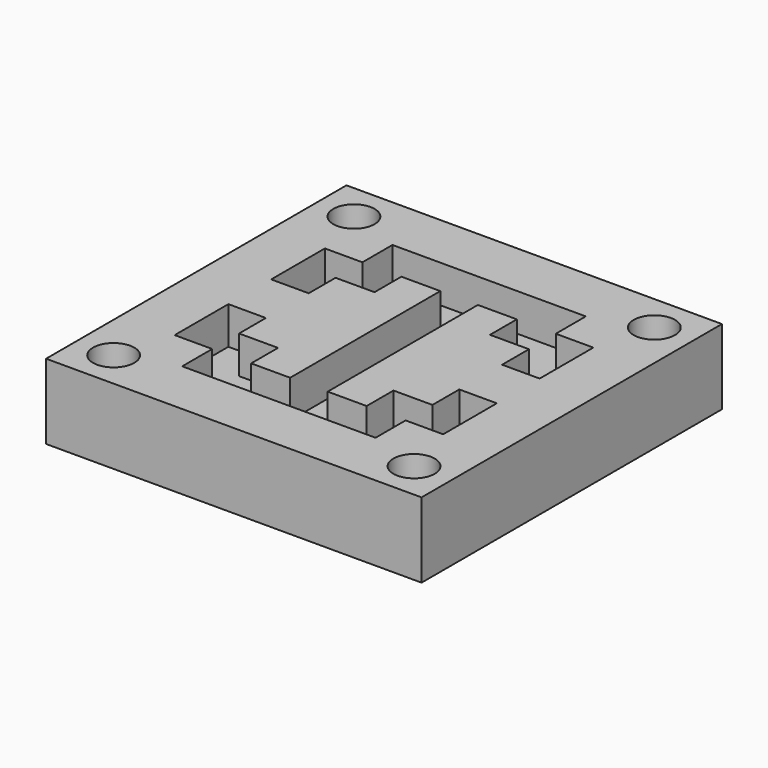
from build123d import *

# Parameters (mm, degrees)
F0_W     = 10
F0_H     = 10
F0_R     = 0.55
F1_DEPTH = 2
F2_DEPTH = 1


with BuildPart() as f1:
    # F0 (on Top) → F1 (new body)
    with BuildSketch(Plane.XY):
        Rectangle(F0_W, F0_H)
        with Locations((-4, -4)):
            Circle(F0_R, mode=Mode.SUBTRACT)
        with Locations((4, -4)):
            Circle(F0_R, mode=Mode.SUBTRACT)
        with Locations((-4, 4)):
            Circle(F0_R, mode=Mode.SUBTRACT)
        Polygon((0.5, 2.5), (0.5, 0.5), (0.5, -0.5), (0.5, -2.5), (1.537619, -2.5), (1.537619, -1.606418), (2.575238, -1.606418), (2.575238, -0.712836), (3.575238, -0.712836), (3.575238, -2.5), (2.575238, -2.5), (2.575238, -3.5), (0.5, -3.5), (-0.5, -3.5), (-2.575238, -3.5), (-2.575238, -2.5), (-3.575238, -2.5), (-3.575238, -0.712836), (-2.575238, -0.712836), (-2.575238, -1.606418), (-1.537619, -1.606418), (-1.537619, -2.5), (-0.5, -2.5), (-0.5, -0.5), (-0.5, 0.5), (-0.5, 2.5), (-1.537619, 2.5), (-1.537619, 1.606418), (-2.575238, 1.606418), (-2.575238, 0.712836), (-3.575238, 0.712836), (-3.575238, 2.5), (-2.575238, 2.5), (-2.575238, 3.5), (-0.5, 3.5), (0.5, 3.5), (2.575238, 3.5), (2.575238, 2.5), (3.575238, 2.5), (3.575238, 0.712836), (2.575238, 0.712836), (2.575238, 1.606418), (1.537619, 1.606418), (1.537619, 2.5), align=None, mode=Mode.SUBTRACT)
        with Locations((4, 4)):
            Circle(F0_R, mode=Mode.SUBTRACT)
        Polygon((0.5, -0.5), (0.5, 0.5), (0.5, 2.5), (1.537619, 2.5), (1.537619, 1.606418), (2.575238, 1.606418), (2.575238, 0.712836), (3.575238, 0.712836), (3.575238, 2.5), (2.575238, 2.5), (2.575238, 3.5), (0.5, 3.5), (-0.5, 3.5), (-2.575238, 3.5), (-2.575238, 2.5), (-3.575238, 2.5), (-3.575238, 0.712836), (-2.575238, 0.712836), (-2.575238, 1.606418), (-1.537619, 1.606418), (-1.537619, 2.5), (-0.5, 2.5), (-0.5, 0.5), (-0.5, -0.5), (-0.5, -2.5), (-1.537619, -2.5), (-1.537619, -1.606418), (-2.575238, -1.606418), (-2.575238, -0.712836), (-3.575238, -0.712836), (-3.575238, -2.5), (-2.575238, -2.5), (-2.575238, -3.5), (-0.5, -3.5), (0.5, -3.5), (2.575238, -3.5), (2.575238, -2.5), (3.575238, -2.5), (3.575238, -0.712836), (2.575238, -0.712836), (2.575238, -1.606418), (1.537619, -1.606418), (1.537619, -2.5), (0.5, -2.5), align=None)
    extrude(amount=-F1_DEPTH)

    # F0 (on Top) → F2 (cut)
    with BuildSketch(Plane.XY):
        Polygon((0.5, -0.5), (0.5, 0.5), (0.5, 2.5), (1.537619, 2.5), (1.537619, 1.606418), (2.575238, 1.606418), (2.575238, 0.712836), (3.575238, 0.712836), (3.575238, 2.5), (2.575238, 2.5), (2.575238, 3.5), (0.5, 3.5), (-0.5, 3.5), (-2.575238, 3.5), (-2.575238, 2.5), (-3.575238, 2.5), (-3.575238, 0.712836), (-2.575238, 0.712836), (-2.575238, 1.606418), (-1.537619, 1.606418), (-1.537619, 2.5), (-0.5, 2.5), (-0.5, 0.5), (-0.5, -0.5), (-0.5, -2.5), (-1.537619, -2.5), (-1.537619, -1.606418), (-2.575238, -1.606418), (-2.575238, -0.712836), (-3.575238, -0.712836), (-3.575238, -2.5), (-2.575238, -2.5), (-2.575238, -3.5), (-0.5, -3.5), (0.5, -3.5), (2.575238, -3.5), (2.575238, -2.5), (3.575238, -2.5), (3.575238, -0.712836), (2.575238, -0.712836), (2.575238, -1.606418), (1.537619, -1.606418), (1.537619, -2.5), (0.5, -2.5), align=None)
    extrude(amount=-F2_DEPTH, mode=Mode.SUBTRACT)


solid = f1.part
